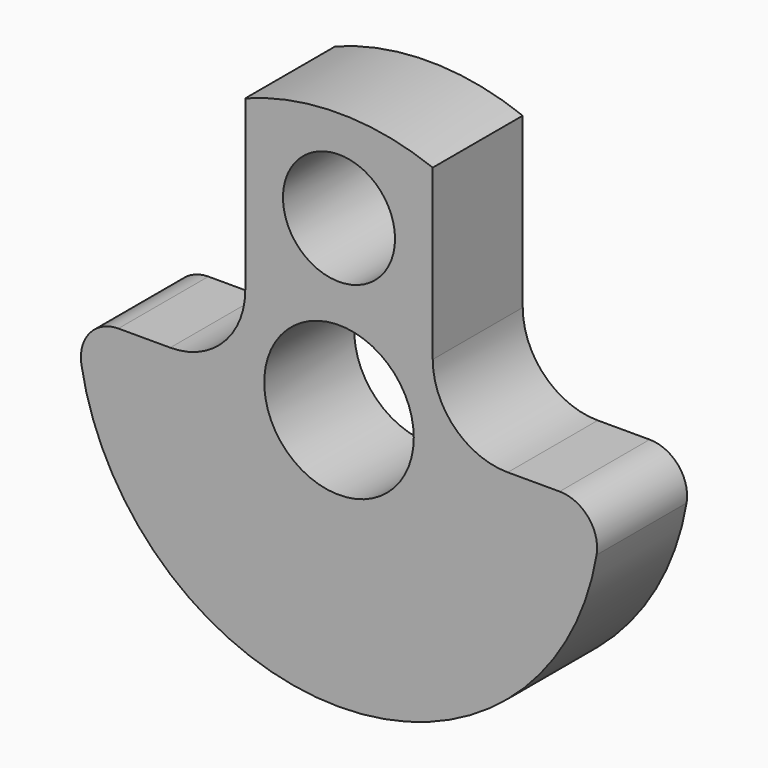
from build123d import *

# Parameters (mm, degrees)
F0_R     = 6.33095
F0_R_2   = 4.74345
F1_DEPTH = 9.525
F2_R     = 6.35
F3_R     = 3.175


with BuildPart() as f1:
    # F0 (on Front) → F1 (new body)
    with BuildSketch(Plane.XZ):
        with BuildLine():
            Line((-7.9375, 0), (-22.1234, 0))
            ThreePointArc((-22.1234, 0), (0, -22.1234), (22.1234, 0))
            Line((22.1234, 0), (7.9375, 0))
            Line((7.9375, 0), (7.9375, 20.650446))
            ThreePointArc((7.9375, 20.650446), (0, 22.1234), (-7.9375, 20.650446))
            Line((-7.9375, 20.650446), (-7.9375, 0))
        make_face()
        Circle(F0_R, mode=Mode.SUBTRACT)
        with Locations((0, 14.3002)):
            Circle(F0_R_2, mode=Mode.SUBTRACT)
    extrude(amount=F1_DEPTH)

    # F2
    f2_edges = [f1.edges().sort_by_distance(p)[0] for p in [
        (-7.9375, -4.7625, 0),
        (7.9375, -4.7625, 0),
    ]]
    fillet(f2_edges, radius=F2_R)

    # F3
    f3_edges = [f1.edges().sort_by_distance(p)[0] for p in [
        (-22.1234, -4.7625, 0),
        (22.1234, -4.7625, 0),
    ]]
    fillet(f3_edges, radius=F3_R)


solid = f1.part
